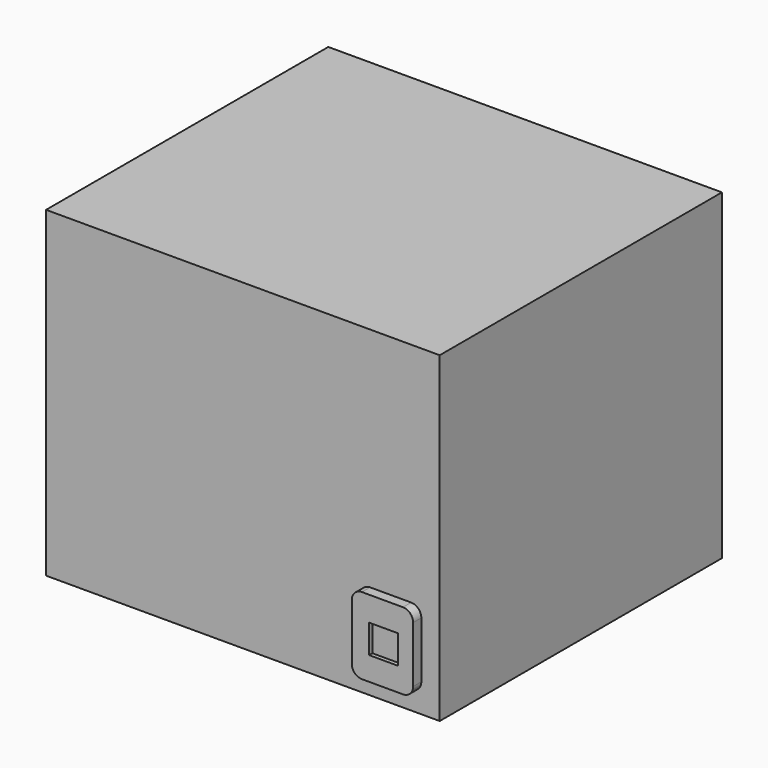
from build123d import *

# Parameters (mm, degrees)
F0_W      = 385
F0_H      = 315
F1_DEPTH  = 345
F2_W      = 60
F2_H      = 75
F3_DEPTH  = 10
F4_R      = 10
F5_W      = 28
F5_H      = 28
F6_DEPTH  = 4
F7_R      = 10.65
F8_DEPTH  = 40
F9_R      = 10.65
F10_DEPTH = 40


with BuildPart() as f1:
    # F0 (on Front) → F1 (new body)
    with BuildSketch(Plane.XZ):
        with Locations((192.5, 157.5)):
            Rectangle(F0_W, F0_H)
    extrude(amount=F1_DEPTH)

    # F2 (on face) → F3 (join)
    with BuildSketch(Plane.XZ.offset(345)):
        with Locations((337, 55.5)):
            Rectangle(F2_W, F2_H)
    extrude(amount=F3_DEPTH)

    # F4
    f4_edges = [f1.edges().sort_by_distance(p)[0] for p in [
        (367, -350, 93),
        (367, -350, 18),
        (307, -350, 93),
        (307, -350, 18),
    ]]
    fillet(f4_edges, radius=F4_R)

    # F5 (on face) → F6 (cut)
    with BuildSketch(Plane.XZ.offset(355)):
        with Locations((338, 55)):
            Rectangle(F5_W, F5_H)
    extrude(amount=-F6_DEPTH, mode=Mode.SUBTRACT)

    # F7 (on face) → F8 (join)
    with BuildSketch(Plane(origin=(0, 0, 0), x_dir=(1, 0, 0), z_dir=(0, 0, -1))):
        with Locations((98.254092, 102.251634)):
            Circle(F7_R)
    extrude(amount=F8_DEPTH)

    # F9 (on face) → F10 (join)
    with BuildSketch(Plane(origin=(0, 0, 0), x_dir=(1, 0, 0), z_dir=(0, 0, -1))):
        with Locations((273.860931, 81.706926)):
            Circle(F9_R)
    extrude(amount=F10_DEPTH)


solid = f1.part
